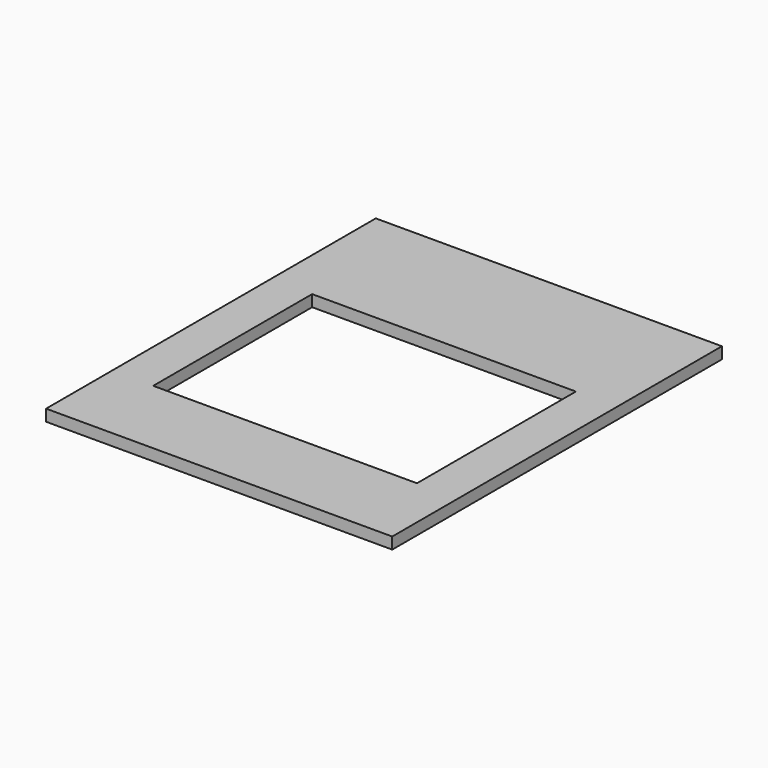
from build123d import *

# Parameters (mm, degrees)
SKETCH_W   = 420
SKETCH_H   = 500
SKETCH_W_2 = 320
SKETCH_H_2 = 241
PAD_DEPTH  = 14


with BuildPart() as part:
    # Sketch → Pad (new body)
    with BuildSketch(Plane.XY):
        with Locations((210, 250)):
            Rectangle(SKETCH_W, SKETCH_H)
        with Locations((210, 220.5)):
            Rectangle(SKETCH_W_2, SKETCH_H_2, mode=Mode.SUBTRACT)
    extrude(amount=PAD_DEPTH)


solid = part.part
